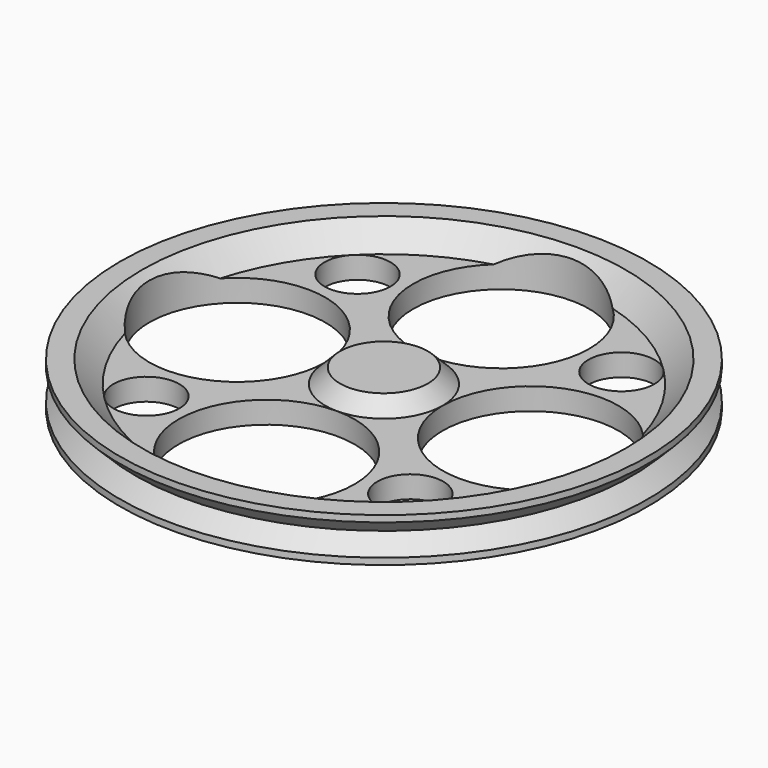
from build123d import *

# Parameters (mm, degrees)
SKETCH001_R        = 12
SKETCH001_R_2      = 4.5
POCKET_DEPTH       = 210.001
POLARPATTERN_COUNT = 4
POCKET001_DEPTH    = 4
CHAMFER_SIZE       = 0.5


with BuildPart() as part:
    # Sketch → Revolution (revolve)
    with BuildSketch(Plane.XZ):
        Polygon((0, 2), (-5.985281, 2), (-8, 0), (-29.955844, 0), (-32.977922, 3), (-36, 3), (-36, 2.12132), (-33.87868, 0), (-36, -2.12132), (-36, -3), (0, -3), align=None)
    revolve(axis=Axis((0, 0, 0), (0, 0, 1)))

    # Sketch001 → Pocket (cut, through all)
    with BuildSketch(Plane(origin=(0, 0, -3), x_dir=(1, 0, 0), z_dir=(0, 0, -1))):
        with Locations((0, 20)):
            Circle(SKETCH001_R)
        with Locations((18, 18)):
            Circle(SKETCH001_R_2)
    pocket = extrude(amount=-POCKET_DEPTH, mode=Mode.SUBTRACT)

    # PolarPattern: Pocket ×4 about axis
    polarpattern_axis = Axis((0, 0, -3), (0, 0, -1))
    for i in range(1, POLARPATTERN_COUNT):
        add(pocket.rotate(polarpattern_axis, i * 360 / POLARPATTERN_COUNT), mode=Mode.SUBTRACT)

    # Sketch002 → Pocket001 (cut)
    with BuildSketch(Plane(origin=(0, 0, -3), x_dir=(1, 0, 0), z_dir=(0, 0, -1))):
        with BuildLine():
            ThreePointArc((-2, 1.5), (-2.5, 0), (-2, -1.5))
            Line((2, -1.5), (-2, -1.5))
            ThreePointArc((2, -1.5), (2.5, 0), (2, 1.5))
            Line((2, 1.5), (-2, 1.5))
        make_face()
    extrude(amount=-POCKET001_DEPTH, mode=Mode.SUBTRACT)

    # Chamfer
    chamfer_edges = [part.edges().sort_by_distance(p)[0] for p in [
        (0, -1.5, -3),
        (-2.5, 0, -3),
        (0, 1.5, -3),
        (2.5, 0, -3),
    ]]
    chamfer(chamfer_edges, length=CHAMFER_SIZE)


solid = part.part
